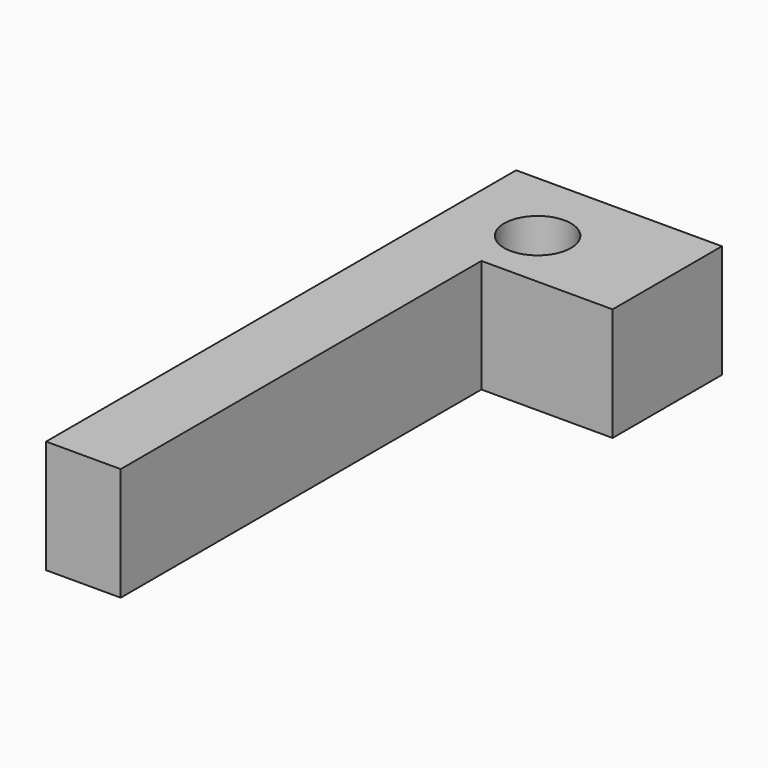
from build123d import *

# Parameters (mm, degrees)
F0_R     = 3.745868
F1_DEPTH = 12.7


with BuildPart() as f1:
    # F0 (on Top) → F1 (new body)
    with BuildSketch(Plane.XY):
        Polygon((0, 14.359627), (0, 0), (0, -12.91769), (0, -36.210679), (8.367602, -36.210679), (8.367602, 14.359627), align=None)
        Polygon((0, 29.683962), (0, 14.359627), (8.367602, 14.359627), (23.078961, 14.359627), (23.078961, 29.683962), align=None)
        with Locations((9.220874, 21.170126)):
            Circle(F0_R, mode=Mode.SUBTRACT)
    extrude(amount=F1_DEPTH)


solid = f1.part
